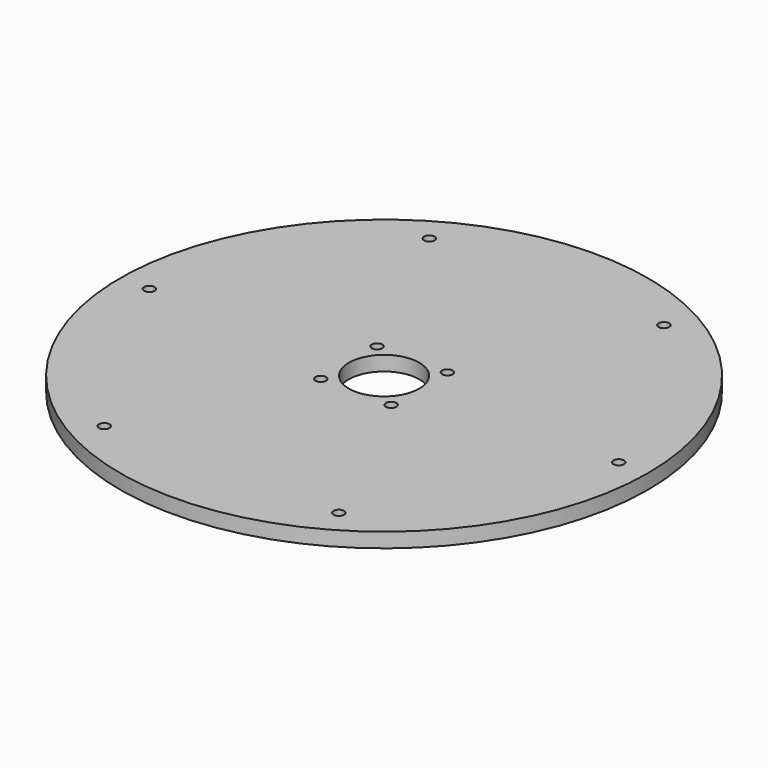
from build123d import *

# Parameters (mm, degrees)
SKETCH_R        = 90
SKETCH_R_2      = 1.8
SKETCH_R_3      = 12
PAD_DEPTH       = 5
SKETCH001_R     = 4.25
POCKET_DEPTH    = 3
POCKET001_DEPTH = 3


with BuildPart() as part:
    # Sketch → Pad (new body)
    with BuildSketch(Plane.XY):
        Circle(SKETCH_R)
        with Locations((-40, 69.282032)):
            Circle(SKETCH_R_2, mode=Mode.SUBTRACT)
        with Locations((40, 69.282032)):
            Circle(SKETCH_R_2, mode=Mode.SUBTRACT)
        with Locations((80, 0)):
            Circle(SKETCH_R_2, mode=Mode.SUBTRACT)
        with Locations((40, -69.282032)):
            Circle(SKETCH_R_2, mode=Mode.SUBTRACT)
        with Locations((-40, -69.282032)):
            Circle(SKETCH_R_2, mode=Mode.SUBTRACT)
        with Locations((-80, 0)):
            Circle(SKETCH_R_2, mode=Mode.SUBTRACT)
        Circle(SKETCH_R_3, mode=Mode.SUBTRACT)
        with Locations((-12, 12)):
            Circle(SKETCH_R_2, mode=Mode.SUBTRACT)
        with Locations((12, 12)):
            Circle(SKETCH_R_2, mode=Mode.SUBTRACT)
        with Locations((12, -12)):
            Circle(SKETCH_R_2, mode=Mode.SUBTRACT)
        with Locations((-12, -12)):
            Circle(SKETCH_R_2, mode=Mode.SUBTRACT)
    extrude(amount=PAD_DEPTH)

    # Sketch001 → Pocket (cut)
    with BuildSketch(Plane(origin=(0, 0, 0), x_dir=(1, 0, 0), z_dir=(0, 0, -1))):
        with Locations((-40, 69.282032)):
            Circle(SKETCH001_R)
        with Locations((40, 69.282032)):
            Circle(SKETCH001_R)
        with Locations((80, 0)):
            Circle(SKETCH001_R)
        with Locations((40, -69.282032)):
            Circle(SKETCH001_R)
        with Locations((-40, -69.282032)):
            Circle(SKETCH001_R)
        with Locations((-80, 0)):
            Circle(SKETCH001_R)
    extrude(amount=-POCKET_DEPTH, mode=Mode.SUBTRACT)

    # Sketch002 → Pocket001 (cut)
    with BuildSketch(Plane(origin=(0, 0, 0), x_dir=(1, 0, 0), z_dir=(0, 0, -1))):
        Polygon((-8.845014, 11.219894), (-9.746916, 14.342245), (-12.901902, 15.122351), (-15.154986, 12.780106), (-14.253084, 9.657755), (-11.098098, 8.877649), align=None)
        Polygon((14.253084, 9.657755), (15.154986, 12.780106), (12.901902, 15.122351), (9.746916, 14.342245), (8.845014, 11.219894), (11.098098, 8.877649), align=None)
        Polygon((12.901902, -15.122351), (15.154986, -12.780106), (14.253084, -9.657755), (11.098098, -8.877649), (8.845014, -11.219894), (9.746916, -14.342245), align=None)
        Polygon((-9.746916, -14.342245), (-8.845014, -11.219894), (-11.098098, -8.877649), (-14.253084, -9.657755), (-15.154986, -12.780106), (-12.901902, -15.122351), align=None)
    extrude(amount=-POCKET001_DEPTH, mode=Mode.SUBTRACT)


solid = part.part
